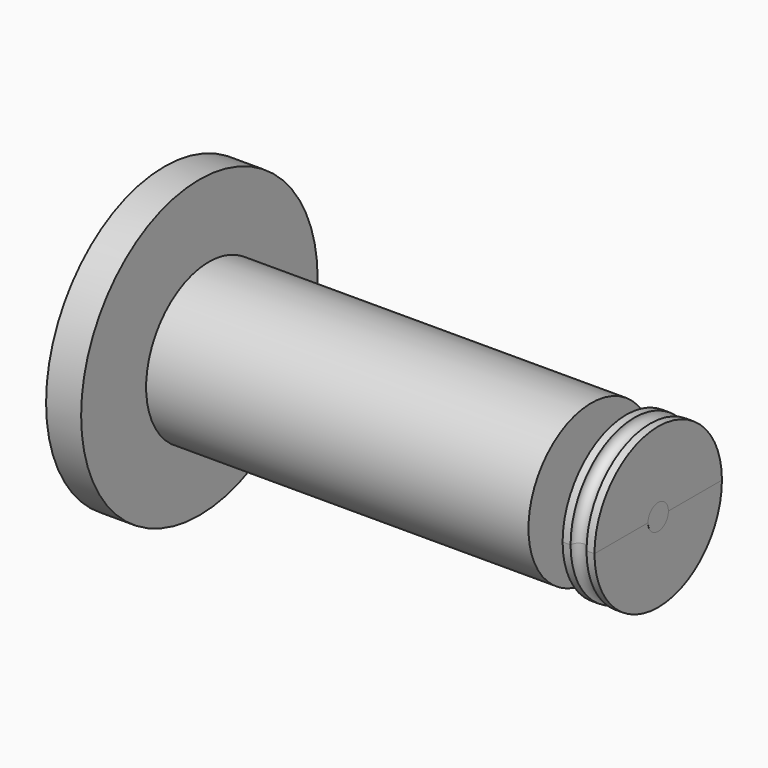
from build123d import *

# Parameters (mm, degrees)
F0_R      = 24.65
F1_DEPTH  = 120
F2_R      = 4
F3_DEPTH  = 21
F4_R      = 13.995558834
F5_DEPTH  = 3
F6_R      = 46.4
F6_R_2    = 13.995558834
F7_DEPTH  = 11
F8_R      = 7
F9_DEPTH  = 8
F10_R     = 3
F11_DEPTH = 6
F13_DEPTH = 10
F15_R     = 2.5


with BuildPart() as f1:
    # F0 (on Right) → F1 (new body)
    with BuildSketch(Plane.YZ):
        Circle(F0_R)
    extrude(amount=F1_DEPTH)

    # F2 (on face) → F3 (join)
    with BuildSketch(Plane.YZ.offset(120)):
        Circle(F2_R)
    extrude(amount=F3_DEPTH)

    # F4 (on face) → F5 (join)
    with BuildSketch(Plane(origin=(0, 0, 0), x_dir=(0, -1, 0), z_dir=(-1, 0, 0))):
        Circle(F4_R)
    extrude(amount=F5_DEPTH)


with BuildPart() as f7:
    # F6 (on face) → F7 (new body)
    with BuildSketch(Plane(origin=(-3, 0, 0), x_dir=(0, -1, 0), z_dir=(-1, 0, 0))):
        Circle(F6_R)
        Circle(F6_R_2, mode=Mode.SUBTRACT)
        Circle(F6_R_2)
    extrude(amount=F7_DEPTH)

    # F8 (on face) → F9 (join)
    with BuildSketch(Plane(origin=(-14, 0, 0), x_dir=(0, -1, 0), z_dir=(-1, 0, 0))):
        Circle(F8_R)
    extrude(amount=F9_DEPTH)

    # F10 (on face) → F11 (join)
    with BuildSketch(Plane(origin=(-22, 0, 0), x_dir=(0, -1, 0), z_dir=(-1, 0, 0))):
        Circle(F10_R)
    extrude(amount=F11_DEPTH)


with BuildPart() as f13:
    # F12 (on face) → F13 (new body)
    with BuildSketch(Plane.YZ.offset(141)):
        with BuildLine():
            ThreePointArc((4, 0), (0, -4), (-4, 0))
            Line((-4, 0), (-25, 0))
            ThreePointArc((-25, 0), (0, -25), (25, 0))
            Line((25, 0), (4, 0))
        make_face()
    extrude(amount=-F13_DEPTH)

    # F15 (on Top) → F16 (revolve, cut)
    with BuildSketch(Plane.XY):
        with Locations((136, 25)):
            Circle(F15_R)
    revolve(axis=Axis((251.4820694923, 0, 0), (1, 0, 0)), mode=Mode.SUBTRACT)

    # F17: F13 across plane


with BuildPart() as f13_1:
    add(f13.part)
    add(f13.part.mirror(Plane.XY))


solid = Compound([f1.part, f7.part, f13_1.part])
